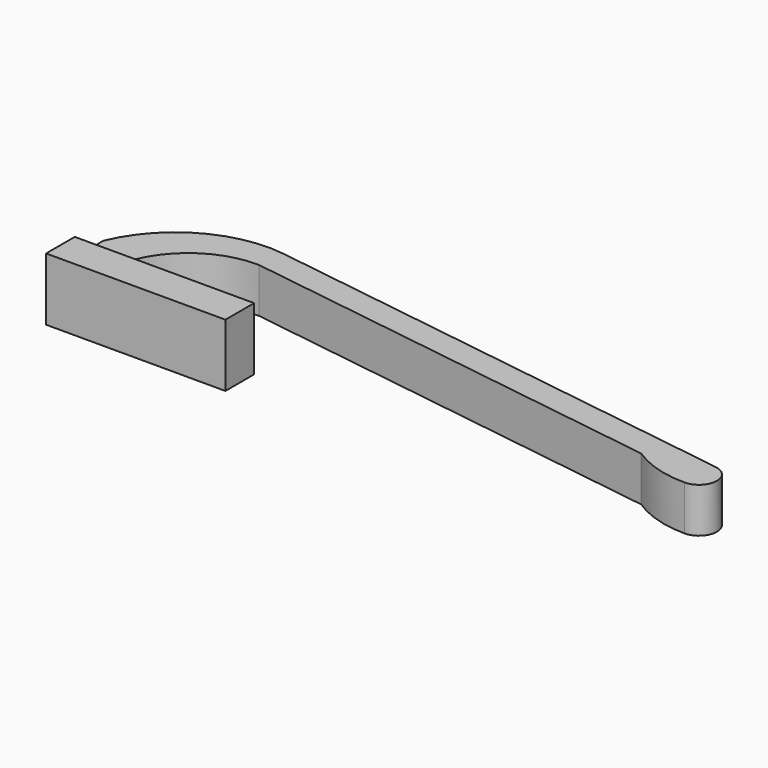
from build123d import *

# Parameters (mm, degrees)
F1_DEPTH = 5
F2_DEPTH = 7


with BuildPart() as f1:
    # F0 (on Top) → F1 (new body)
    with BuildSketch(Plane.XY):
        with BuildLine():
            ThreePointArc((61.629022, 5.913021), (64.679214, 4.488544), (68.009999, 4))
            ThreePointArc((68.009999, 4), (70.004837, 5.856404), (68.29645, 7.97938))
            Line((68.29645, 7.97938), (13.861023, 15.857132))
            ThreePointArc((13.861023, 15.857132), (5.586179, 14.300147), (0, 8))
            Line((0, 8), (0, 4))
            Line((0, 4), (4, 4))
            Line((4, 4), (4, 6))
            ThreePointArc((4, 6), (7.547234, 11.043894), (13.431347, 12.888062))
            Line((13.431347, 12.888062), (61.629022, 5.913021))
        make_face()
    extrude(amount=F1_DEPTH)

    # F0 (on Top) → F2 (join)
    with BuildSketch(Plane.XY):
        Polygon((4, 4), (0, 4), (0, 0), (20, 0), (20, 4), align=None)
    extrude(amount=F2_DEPTH)


solid = f1.part
